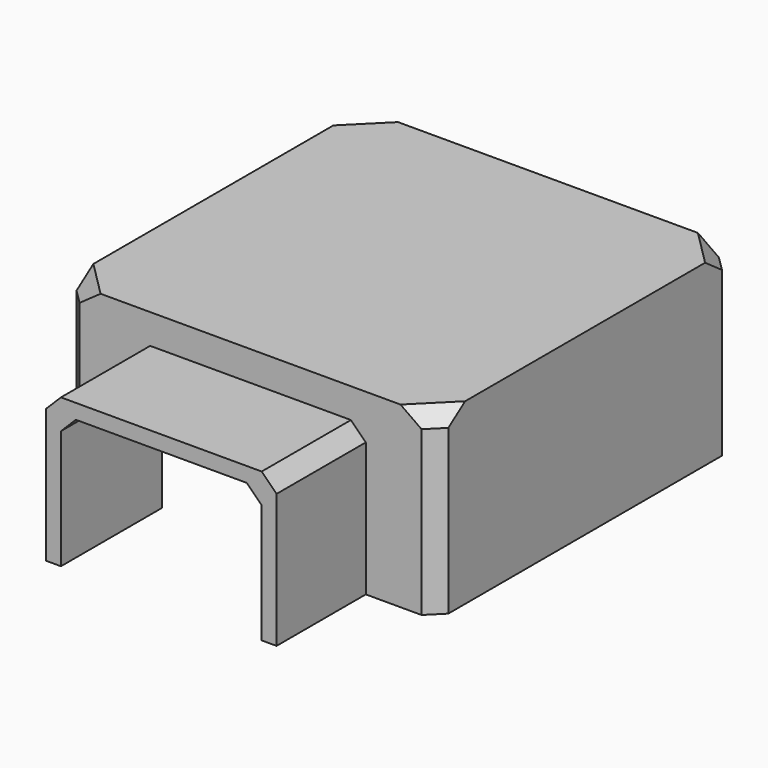
from build123d import *

# Parameters (mm, degrees)
SKETCH_W        = 50
SKETCH_H        = 50
SKETCH_W_2      = 46
SKETCH_H_2      = 46
PAD_DEPTH       = 20
SKETCH001_W     = 50
SKETCH001_H     = 50
PAD001_DEPTH    = 4
SKETCH002_W     = 27
SKETCH002_H     = 18
POCKET_DEPTH    = 5
CHAMFER_SIZE    = 2
CHAMFER001_SIZE = 2
PAD002_DEPTH    = 15
CHAMFER002_SIZE = 2


with BuildPart() as part:
    # Sketch → Pad (new body)
    with BuildSketch(Plane.XY):
        Rectangle(SKETCH_W, SKETCH_H)
        Rectangle(SKETCH_W_2, SKETCH_H_2, mode=Mode.SUBTRACT)
    extrude(amount=PAD_DEPTH)

    # Sketch001 (on Face10 of Pad) → Pad001 (join)
    with BuildSketch(Plane.XY.offset(20)):
        Rectangle(SKETCH001_W, SKETCH001_H)
    extrude(amount=PAD001_DEPTH)

    # Sketch002 (on Face6 of Pad001) → Pocket (cut)
    with BuildSketch(Plane.XZ.offset(25)):
        with Locations((0, 9)):
            Rectangle(SKETCH002_W, SKETCH002_H)
    extrude(amount=-POCKET_DEPTH, mode=Mode.SUBTRACT)

    # Chamfer
    chamfer_edges = [part.edges().sort_by_distance(p)[0] for p in [
        (-25, -25, 22),
        (-25, -25, 10),
        (25, -25, 10),
        (25, -25, 22),
        (25, 25, 10),
        (25, 25, 22),
        (-25, 25, 10),
        (-25, 25, 22),
        (-23, 23, 10),
        (23, -23, 10),
        (23, 23, 10),
        (-23, -23, 10),
    ]]
    chamfer(chamfer_edges, length=CHAMFER_SIZE)

    # Chamfer001
    chamfer001_edges = [part.edges().sort_by_distance(p)[0] for p in [
        (24, -24, 24),
        (-24, -24, 24),
        (24, 24, 24),
        (-24, 24, 24),
    ]]
    chamfer(chamfer001_edges, length=CHAMFER001_SIZE)

    # Sketch003 (on Face19 of Chamfer001) → Pad002 (join)
    with BuildSketch(Plane.XZ.offset(25)):
        Polygon((-13.5, 18), (-13.5, 0), (-15.5, 0), (-15.5, 20), (15.5, 20), (15.5, 0), (13.5, 0), (13.5, 18), align=None)
    extrude(amount=PAD002_DEPTH)

    # Chamfer002
    chamfer002_edges = [part.edges().sort_by_distance(p)[0] for p in [
        (13.5, -32.5, 18),
        (-13.5, -32.5, 18),
        (15.5, -32.5, 20),
        (-15.5, -32.5, 20),
    ]]
    chamfer(chamfer002_edges, length=CHAMFER002_SIZE)


solid = part.part
